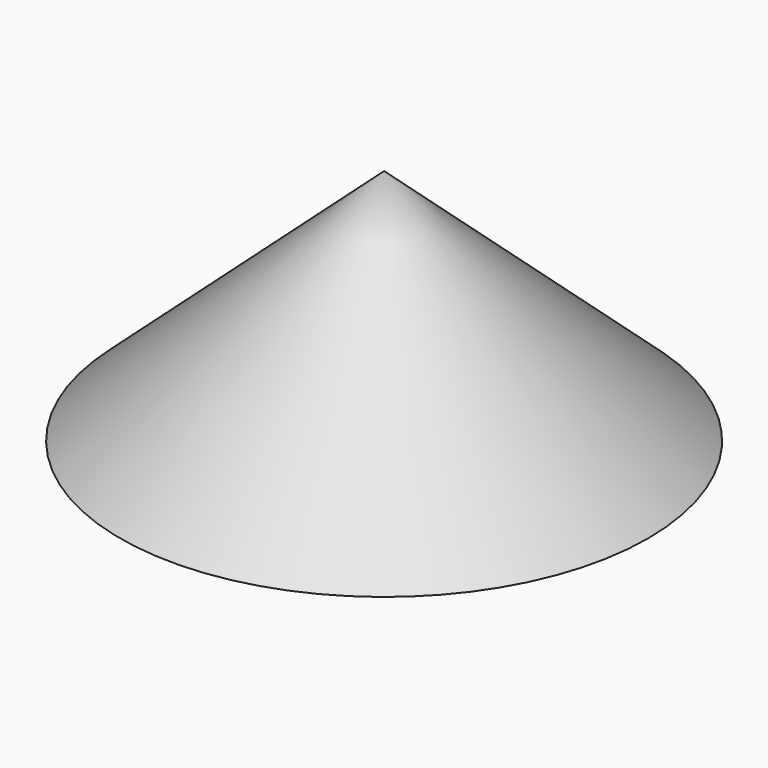
from build123d import *

# Parameters (mm, degrees)
F0_R = 114.864728


with BuildPart() as f3:
    # F0 (on Top) → F3 section 0
    with BuildSketch(Plane.XY, mode=Mode.PRIVATE) as f3_s0:
        Circle(F0_R)
    loft([Vertex(0, 0, 103.378), f3_s0.sketch])


solid = f3.part
